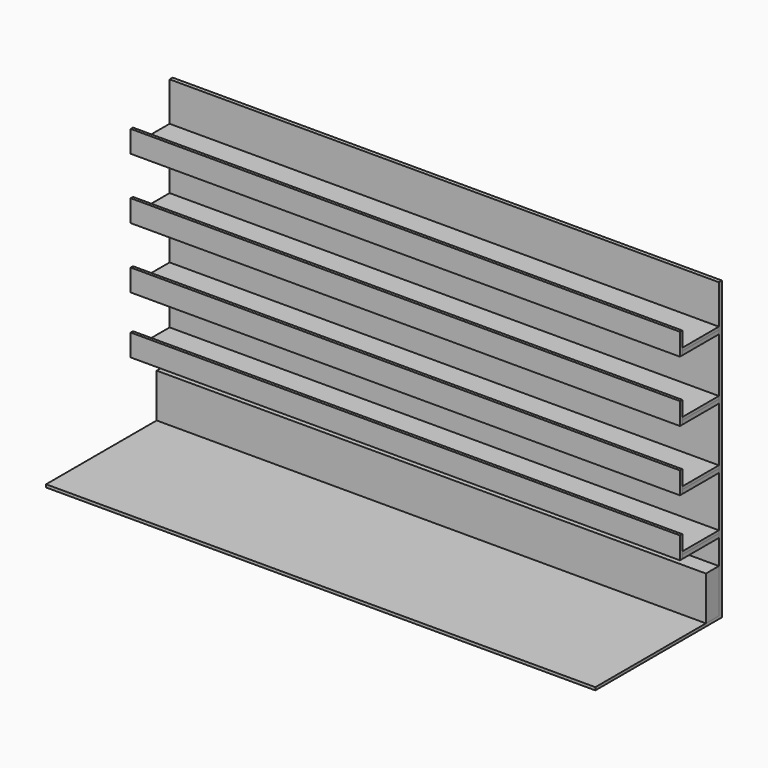
from build123d import *

# Parameters (mm, degrees)
F0_W      = 25.4
F0_H      = 1955.8
F1_DEPTH  = 3657.6
F2_W      = 304.8
F2_H      = 25.4
F3_DEPTH  = 3657.6
F4_W      = 304.8
F4_H      = 19.05
F5_DEPTH  = 3657.6
F6_W      = 19.05
F6_H      = 146.05
F7_DEPTH  = 3657.6
F8_W      = 107.95
F8_H      = 292.1
F9_DEPTH  = 3657.6
F10_W     = 1094.550878
F10_H     = 2330.464333
F11_DEPTH = 3657.6


with BuildPart() as f1:
    # F0 (on Right) → F1 (new body)
    with BuildSketch(Plane.YZ):
        Polygon((1803.4, 0), (0, 0), (0, -19.05), (1828.8, -19.05), (1828.8, 0), align=None)
        with Locations((1816.1, 977.9)):
            Rectangle(F0_W, F0_H)
    extrude(amount=F1_DEPTH)

    # F10 (on face) → F11 (cut)
    with BuildSketch(Plane(origin=(0, 0, 0), x_dir=(0, -1, 0), z_dir=(-1, 0, 0))):
        with Locations((-228.017494, 831.737175)):
            Rectangle(F10_W, F10_H)
    extrude(amount=-F11_DEPTH, mode=Mode.SUBTRACT)


with BuildPart() as f3:
    # F2 (on face) → F3 (new body)
    with BuildSketch(Plane.YZ.offset(3657.6)):
        with Locations((1651, 469.9)):
            Rectangle(F2_W, F2_H)
        with Locations((1651, 850.9)):
            Rectangle(F2_W, F2_H)
        with Locations((1651, 1257.3)):
            Rectangle(F2_W, F2_H)
        with Locations((1651, 1663.7)):
            Rectangle(F2_W, F2_H)
    extrude(amount=-F3_DEPTH)


with BuildPart() as f5:
    # F4 (on face) → F5 (new body)
    with BuildSketch(Plane(origin=(0, 0, 0), x_dir=(0, -1, 0), z_dir=(-1, 0, 0))):
        with Locations((-1651, 492.125)):
            Rectangle(F4_W, F4_H)
        with Locations((-1651, 873.125)):
            Rectangle(F4_W, F4_H)
        with Locations((-1651, 1279.525)):
            Rectangle(F4_W, F4_H)
        with Locations((-1651, 1685.925)):
            Rectangle(F4_W, F4_H)
    extrude(amount=-F5_DEPTH)


with BuildPart() as f7:
    # F6 (on face) → F7 (new body)
    with BuildSketch(Plane.YZ.offset(3657.6)):
        with Locations((1489.075, 530.225)):
            Rectangle(F6_W, F6_H)
        with Locations((1489.075, 911.225)):
            Rectangle(F6_W, F6_H)
        with Locations((1489.075, 1317.625)):
            Rectangle(F6_W, F6_H)
        with Locations((1489.075, 1724.025)):
            Rectangle(F6_W, F6_H)
    extrude(amount=-F7_DEPTH)


with BuildPart() as f9:
    # F8 (on face) → F9 (new body)
    with BuildSketch(Plane(origin=(0, 0, 0), x_dir=(0, -1, 0), z_dir=(-1, 0, 0))):
        with Locations((-1749.425, 146.05)):
            Rectangle(F8_W, F8_H)
    extrude(amount=-F9_DEPTH)


solid = Compound([f1.part, f3.part, f5.part, f7.part, f9.part])
